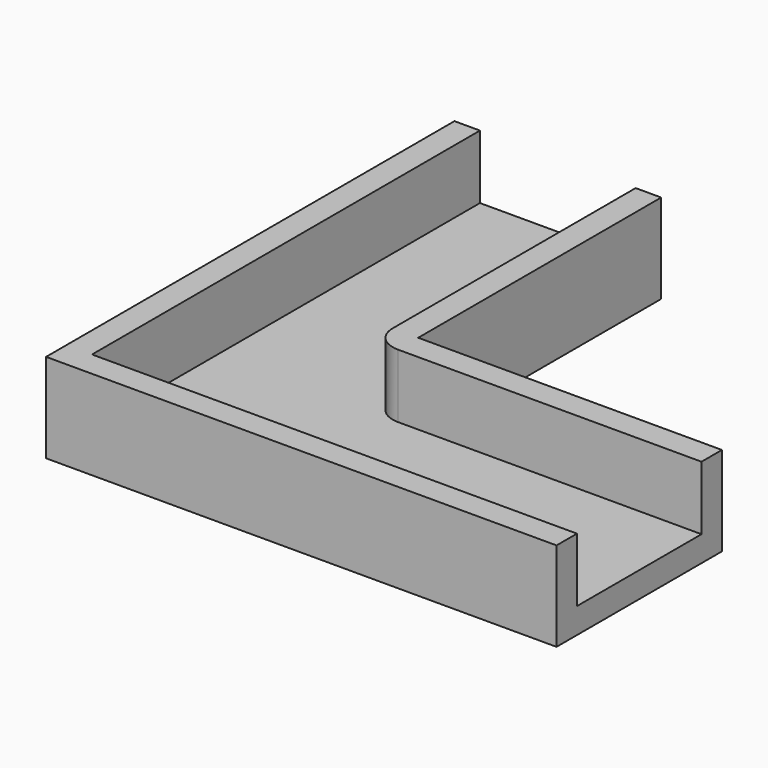
from build123d import *

# Parameters (mm, degrees)
PAD_DEPTH   = 7
THICKNESS_T = -2


with BuildPart() as part:
    # Sketch → Pad (new body)
    with BuildSketch(Plane.XY):
        Polygon((0, 0), (40, 0), (40, 16.2), (16.2, 16.2), (16.2, 40), (0, 40), align=None)
    extrude(amount=PAD_DEPTH)

    # Thickness
    thickness_openings = [part.faces().sort_by_distance(p)[0] for p in [
        (15.560815, 15.560815, 7),
        (40, 8.1, 3.5),
        (8.1, 40, 3.5),
    ]]
    offset(amount=THICKNESS_T, openings=thickness_openings)


solid = part.part
